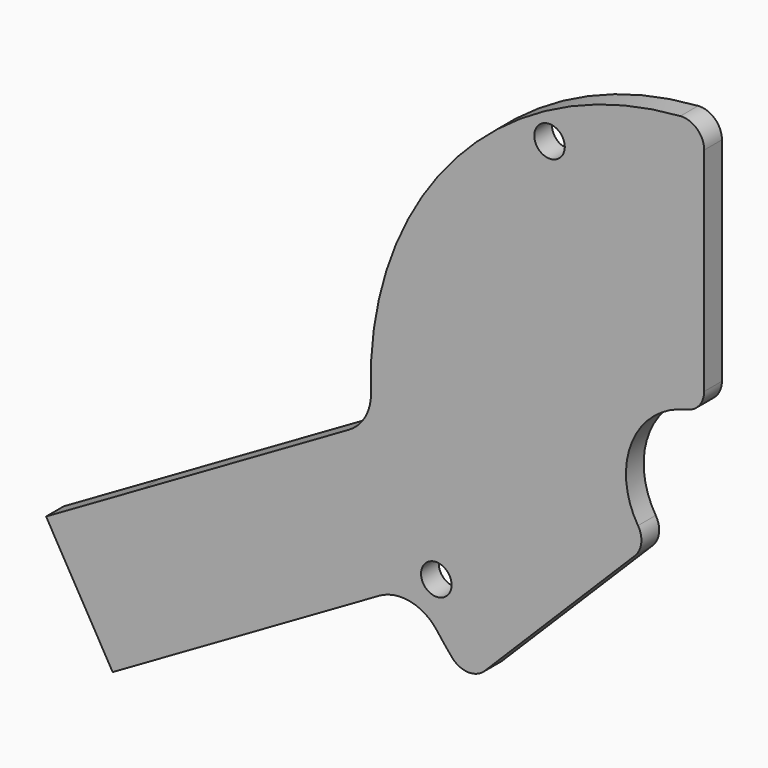
from build123d import *

# Parameters (mm, degrees)
F1_DEPTH = 6.35
F3_D     = 8.7376
F4_R     = 12.7
F5_R     = 6.35


with BuildPart() as f1:
    # F0 (on Front) → F1 (new body)
    with BuildSketch(Plane.XZ):
        with BuildLine():
            Line((-141.7374620444, -81.8321618656), (-82.620901982, -47.7012))
            ThreePointArc((-82.620901982, -47.7012), (-75.6878127118, -58.0773013549), (-67.4596839815, -67.4596839815))
            Line((-67.4596839815, -67.4596839815), (-15.8232112853, -15.8232112853))
            ThreePointArc((-15.8232112853, -15.8232112853), (-20.6740218508, 8.5634602394), (0, 22.3774))
            Line((0, 22.3774), (0, 95.4024))
            ThreePointArc((0, 95.4024), (-71.1544614181, 63.5504566943), (-94.7963262761, -10.7365939814))
            Line((-94.7963262761, -10.7365939814), (-160.7874620444, -48.8365939814))
            Line((-160.7874620444, -48.8365939814), (-188.2837686146, -64.7115939814))
            Line((-188.2837686146, -64.7115939814), (-169.2337686146, -97.7071618656))
            Line((-169.2337686146, -97.7071618656), (-141.7374620444, -81.8321618656))
        make_face()
    extrude(amount=F1_DEPTH)

    # F3 (through all)
    with Locations(Plane.XZ.offset(6.35)):
        with Locations((-44.2468, 76.6377056723), (-76.6377056723, -44.2468)):
            Hole(F3_D / 2)

    # F4
    f4_edges = [f1.edges().sort_by_distance(p)[0] for p in [
        (-82.620902, -3.175, -47.7012),
        (-94.796326, -3.175, -10.736594),
    ]]
    fillet(f4_edges, radius=F4_R)

    # F5
    f5_edges = [f1.edges().sort_by_distance(p)[0] for p in [
        (-67.459684, -3.175, -67.459684),
        (-15.823211, -3.175, -15.823211),
        (0, -3.175, 22.3774),
        (0, -3.175, 95.4024),
    ]]
    fillet(f5_edges, radius=F5_R)


solid = f1.part
